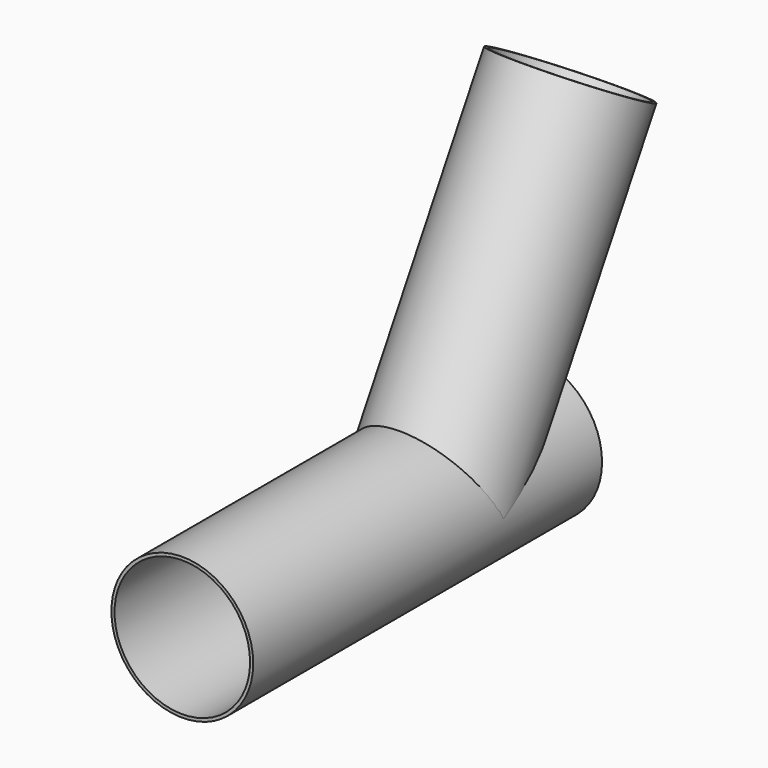
from build123d import *

# Parameters (mm, degrees)
F3_R          = 68
F3_R_2        = 65
F4_DEPTH      = 330
F5_R          = 68
F5_R_2        = 65
F6_DEPTH      = 300
F6_DEPTH_BACK = 118.1818181818


with BuildPart() as f4:
    # F3 (on line) → F4 (new body)
    with BuildSketch(Plane(origin=(0, 0, 0), x_dir=(1, 0, 0), z_dir=(0, 0.5, 0.8660254038))):
        Circle(F3_R)
        Circle(F3_R_2, mode=Mode.SUBTRACT)
    extrude(amount=F4_DEPTH)


with BuildPart() as f6:
    # F5 (on Front) → F6 (new body, two sides)
    with BuildSketch(Plane.XZ) as f6_sk:
        Circle(F5_R)
        Circle(F5_R_2, mode=Mode.SUBTRACT)
    extrude(amount=F6_DEPTH)
    extrude(f6_sk.sketch, amount=-F6_DEPTH_BACK)


with BuildPart() as f4_1:
    add(f4.part)

    # F7: cut F6
    add(f6.part, mode=Mode.SUBTRACT)


solid = Compound([f6.part, f4_1.part])
